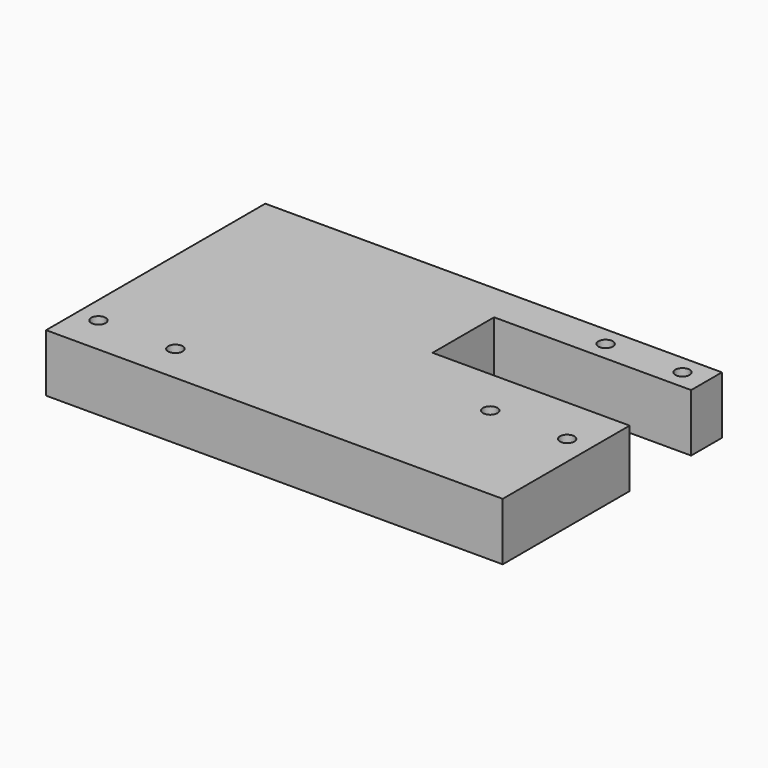
from build123d import *

# Parameters (mm, degrees)
F1_DEPTH = 6
F2_R     = 1.5
F3_DEPTH = 25


with BuildPart() as f1:
    # F0 (on Top) → F1 (new body, symmetric)
    with BuildSketch(Plane.XY):
        Polygon((47.5, 20.5), (47.5, 28.5), (-47.5, 28.5), (-47.5, -28.5), (47.5, -28.5), (47.5, 4.5), (6.5, 4.5), (6.5, 20.5), align=None)
    extrude(amount=F1_DEPTH, both=True)

    # F2 (on face) → F3 (cut)
    with BuildSketch(Plane.XY.offset(6)):
        with Locations((-43, -20.5)):
            Circle(F2_R)
        with Locations((-27, -20.5)):
            Circle(F2_R)
        with Locations((26.5, -5.5)):
            Circle(F2_R)
        with Locations((42.5, -5.5)):
            Circle(F2_R)
        with Locations((42.5, 24.5)):
            Circle(F2_R)
        with Locations((26.5, 24.5)):
            Circle(F2_R)
    extrude(amount=-F3_DEPTH, mode=Mode.SUBTRACT)


solid = f1.part
